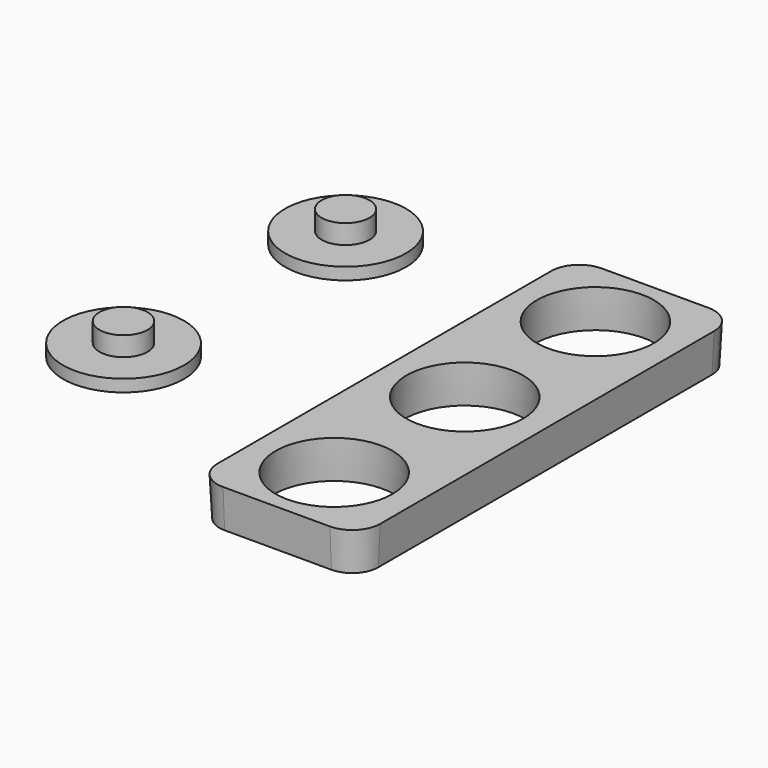
from build123d import *

# Parameters (mm, degrees)
F0_R     = 12.7016265203
F0_R_2   = 12.7038195685
F1_DEPTH = 8.1915
F1_TAPER = -3
F2_R     = 12.701626737
F3_DEPTH = 2.54
F2_R_2   = 12.7016276039
F4_R     = 5.0491582817
F5_DEPTH = 4.064
F6_R     = 5.0179830383
F7_DEPTH = 4.064


with BuildPart() as f1:
    # F0 (on Top) → F1 (new body)
    with BuildSketch(Plane.XY):
        with BuildLine():
            Line((-16.4664387703, 43.8327639356), (-16.4664387703, 21.216372028))
            Line((-16.4664387703, 21.216372028), (-16.4664387703, -21.216372028))
            Line((-16.4664387703, -21.216372028), (-16.4664387703, -43.8327639356))
            ThreePointArc((-16.4664387703, -43.8327639356), (-14.8669489024, -47.6942740676), (-11.0054387703, -49.2937639356))
            Line((-11.0054387703, -49.2937639356), (11.4276575848, -49.2937639356))
            ThreePointArc((11.4276575848, -49.2937639356), (15.2891677168, -47.6942740676), (16.8886575848, -43.8327639356))
            Line((16.8886575848, -43.8327639356), (16.8886575848, -21.216372028))
            Line((16.8886575848, -21.216372028), (16.8886575848, 21.216372028))
            Line((16.8886575848, 21.216372028), (16.8886575848, 43.8327639356))
            ThreePointArc((16.8886575848, 43.8327639356), (15.2891677168, 47.6942740676), (11.4276575848, 49.2937639356))
            Line((11.4276575848, 49.2937639356), (-11.0054387703, 49.2937639356))
            ThreePointArc((-11.0054387703, 49.2937639356), (-14.8669489024, 47.6942740676), (-16.4664387703, 43.8327639356))
        make_face()
        with Locations((0, -34.3050807714)):
            Circle(F0_R, mode=Mode.SUBTRACT)
        Circle(F0_R_2, mode=Mode.SUBTRACT)
        with Locations((0, 34.3050807714)):
            Circle(F0_R, mode=Mode.SUBTRACT)
    extrude(amount=F1_DEPTH, taper=F1_TAPER)


with BuildPart() as f3:
    # F2 (on Top) → F3 (new body)
    with BuildSketch(Plane.XY):
        with Locations((-62.4880231917, -11.5053961053)):
            Circle(F2_R)
    extrude(amount=F3_DEPTH)

    # F4 (on face) → F5 (join)
    with BuildSketch(Plane.XY.offset(2.54)):
        with Locations((-62.4880231917, -11.5053961053)):
            Circle(F4_R)
    extrude(amount=F5_DEPTH)


with BuildPart() as f3b:
    # F2 (on Top) → F3, piece 2 (new body)
    with BuildSketch(Plane.XY):
        with Locations((-58.8991828263, 42.3271916807)):
            Circle(F2_R_2)
    extrude(amount=F3_DEPTH)

    # F6 (on face) → F7 (join)
    with BuildSketch(Plane.XY.offset(2.54)):
        with Locations((-58.8991828263, 42.3271916807)):
            Circle(F6_R)
    extrude(amount=F7_DEPTH)


solid = Compound([f1.part, f3.part, f3b.part])
